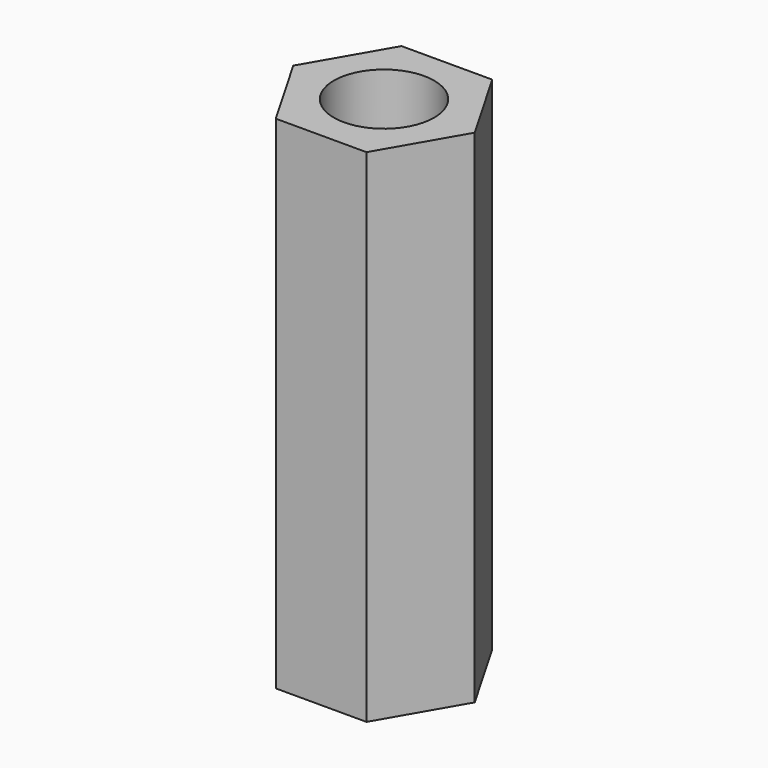
from build123d import *

# Parameters (mm, degrees)
SKETCH_R  = 1.5
PAD_DEPTH = 15


with BuildPart() as part:
    # Sketch → Pad (new body)
    with BuildSketch(Plane.XY):
        Polygon((1.356773, -2.35), (2.713546, 0), (1.356773, 2.35), (-1.356773, 2.35), (-2.713546, 0), (-1.356773, -2.35), align=None)
        Circle(SKETCH_R, mode=Mode.SUBTRACT)
    extrude(amount=PAD_DEPTH)


solid = part.part
